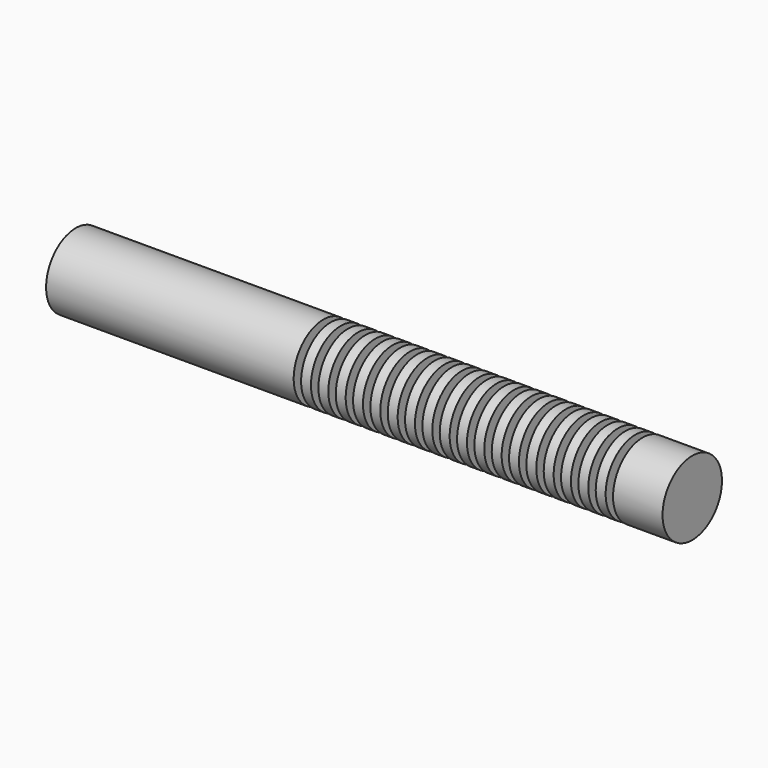
from build123d import *

# Parameters (mm, degrees)
F1_W     = 20
F1_H     = 57.5
F2_W     = 100
F2_H     = 75
F4_R     = 5
F5_DEPTH = 670
F6_DEPTH = 670


with BuildPart() as f3:
    # F0 (on Top) → F3 (revolve)
    with BuildSketch(Plane.XY):
        Polygon((-200, 0), (-500, 0), (-500, -75), (0, -75), (0, -17.5), (-200, -17.5), align=None)
    revolve(axis=Axis((-350, 0, 0), (-1, 0, 0)))


with BuildPart() as f3b:
    # F1 (on Top) → F3, piece 2 (revolve)
    with BuildSketch(Plane.XY):
        with Locations((165, -46.25)):
            Rectangle(F1_W, F1_H)
    revolve(axis=Axis((-350, 0, 0), (-1, 0, 0)))


with BuildPart() as f3c:
    # F1 (on Top) → F3, piece 3 (revolve)
    with BuildSketch(Plane.XY):
        with Locations((340, -46.25)):
            Rectangle(F1_W, F1_H)
    revolve(axis=Axis((-350, 0, 0), (-1, 0, 0)))


with BuildPart() as f3d:
    # F1 (on Top) → F3, piece 4 (revolve)
    with BuildSketch(Plane.XY):
        with Locations((130, -46.25)):
            Rectangle(F1_W, F1_H)
    revolve(axis=Axis((-350, 0, 0), (-1, 0, 0)))


with BuildPart() as f3e:
    # F1 (on Top) → F3, piece 5 (revolve)
    with BuildSketch(Plane.XY):
        with Locations((95, -46.25)):
            Rectangle(F1_W, F1_H)
    revolve(axis=Axis((-350, 0, 0), (-1, 0, 0)))


with BuildPart() as f3f:
    # F1 (on Top) → F3, piece 6 (revolve)
    with BuildSketch(Plane.XY):
        with Locations((375, -46.25)):
            Rectangle(F1_W, F1_H)
    revolve(axis=Axis((-350, 0, 0), (-1, 0, 0)))


with BuildPart() as f3g:
    # F1 (on Top) → F3, piece 7 (revolve)
    with BuildSketch(Plane.XY):
        with Locations((60, -46.25)):
            Rectangle(F1_W, F1_H)
    revolve(axis=Axis((-350, 0, 0), (-1, 0, 0)))


with BuildPart() as f3h:
    # F1 (on Top) → F3, piece 8 (revolve)
    with BuildSketch(Plane.XY):
        with Locations((305, -46.25)):
            Rectangle(F1_W, F1_H)
    revolve(axis=Axis((-350, 0, 0), (-1, 0, 0)))


with BuildPart() as f3i:
    # F1 (on Top) → F3, piece 9 (revolve)
    with BuildSketch(Plane.XY):
        with Locations((620, -46.25)):
            Rectangle(F1_W, F1_H)
    revolve(axis=Axis((-350, 0, 0), (-1, 0, 0)))


with BuildPart() as f3j:
    # F1 (on Top) → F3, piece 10 (revolve)
    with BuildSketch(Plane.XY):
        with Locations((585, -46.25)):
            Rectangle(F1_W, F1_H)
    revolve(axis=Axis((-350, 0, 0), (-1, 0, 0)))


with BuildPart() as f3k:
    # F1 (on Top) → F3, piece 11 (revolve)
    with BuildSketch(Plane.XY):
        with Locations((445, -46.25)):
            Rectangle(F1_W, F1_H)
    revolve(axis=Axis((-350, 0, 0), (-1, 0, 0)))


with BuildPart() as f3l:
    # F1 (on Top) → F3, piece 12 (revolve)
    with BuildSketch(Plane.XY):
        with Locations((200, -46.25)):
            Rectangle(F1_W, F1_H)
    revolve(axis=Axis((-350, 0, 0), (-1, 0, 0)))


with BuildPart() as f3m:
    # F1 (on Top) → F3, piece 13 (revolve)
    with BuildSketch(Plane.XY):
        with Locations((235, -46.25)):
            Rectangle(F1_W, F1_H)
    revolve(axis=Axis((-350, 0, 0), (-1, 0, 0)))


with BuildPart() as f3n:
    # F1 (on Top) → F3, piece 14 (revolve)
    with BuildSketch(Plane.XY):
        with Locations((410, -46.25)):
            Rectangle(F1_W, F1_H)
    revolve(axis=Axis((-350, 0, 0), (-1, 0, 0)))


with BuildPart() as f3o:
    # F1 (on Top) → F3, piece 15 (revolve)
    with BuildSketch(Plane.XY):
        with Locations((270, -46.25)):
            Rectangle(F1_W, F1_H)
    revolve(axis=Axis((-350, 0, 0), (-1, 0, 0)))


with BuildPart() as f3p:
    # F1 (on Top) → F3, piece 16 (revolve)
    with BuildSketch(Plane.XY):
        with Locations((25, -46.25)):
            Rectangle(F1_W, F1_H)
    revolve(axis=Axis((-350, 0, 0), (-1, 0, 0)))


with BuildPart() as f3q:
    # F1 (on Top) → F3, piece 17 (revolve)
    with BuildSketch(Plane.XY):
        with Locations((515, -46.25)):
            Rectangle(F1_W, F1_H)
    revolve(axis=Axis((-350, 0, 0), (-1, 0, 0)))


with BuildPart() as f3r:
    # F1 (on Top) → F3, piece 18 (revolve)
    with BuildSketch(Plane.XY):
        with Locations((480, -46.25)):
            Rectangle(F1_W, F1_H)
    revolve(axis=Axis((-350, 0, 0), (-1, 0, 0)))


with BuildPart() as f3s:
    # F2 (on Top) → F3, piece 19 (revolve)
    with BuildSketch(Plane.XY):
        with Locations((695, -37.5)):
            Rectangle(F2_W, F2_H)
    revolve(axis=Axis((-350, 0, 0), (-1, 0, 0)))


with BuildPart() as f3t:
    # F1 (on Top) → F3, piece 20 (revolve)
    with BuildSketch(Plane.XY):
        with Locations((550, -46.25)):
            Rectangle(F1_W, F1_H)
    revolve(axis=Axis((-350, 0, 0), (-1, 0, 0)))


with BuildPart() as f5_tool:
    # F4 (on Right) → F5 (new body, through all)
    with BuildSketch(Plane.YZ):
        with Locations((0, 50)):
            Circle(F4_R)
        with Locations((-43.3012701892, -25)):
            Circle(F4_R)
        with Locations((43.3012701892, -25)):
            Circle(F4_R)
    extrude(amount=F5_DEPTH)


with BuildPart() as f3b_1:
    add(f3b.part)

    # F5: cut by f5_tool
    add(f5_tool.part, mode=Mode.SUBTRACT)


with BuildPart() as f3c_1:
    add(f3c.part)

    # F5: cut by f5_tool
    add(f5_tool.part, mode=Mode.SUBTRACT)


with BuildPart() as f3d_1:
    add(f3d.part)

    # F5: cut by f5_tool
    add(f5_tool.part, mode=Mode.SUBTRACT)


with BuildPart() as f3e_1:
    add(f3e.part)

    # F5: cut by f5_tool
    add(f5_tool.part, mode=Mode.SUBTRACT)


with BuildPart() as f3f_1:
    add(f3f.part)

    # F5: cut by f5_tool
    add(f5_tool.part, mode=Mode.SUBTRACT)


with BuildPart() as f3g_1:
    add(f3g.part)

    # F5: cut by f5_tool
    add(f5_tool.part, mode=Mode.SUBTRACT)


with BuildPart() as f3h_1:
    add(f3h.part)

    # F5: cut by f5_tool
    add(f5_tool.part, mode=Mode.SUBTRACT)


with BuildPart() as f3i_1:
    add(f3i.part)

    # F5: cut by f5_tool
    add(f5_tool.part, mode=Mode.SUBTRACT)


with BuildPart() as f3j_1:
    add(f3j.part)

    # F5: cut by f5_tool
    add(f5_tool.part, mode=Mode.SUBTRACT)


with BuildPart() as f3k_1:
    add(f3k.part)

    # F5: cut by f5_tool
    add(f5_tool.part, mode=Mode.SUBTRACT)


with BuildPart() as f3l_1:
    add(f3l.part)

    # F5: cut by f5_tool
    add(f5_tool.part, mode=Mode.SUBTRACT)


with BuildPart() as f3m_1:
    add(f3m.part)

    # F5: cut by f5_tool
    add(f5_tool.part, mode=Mode.SUBTRACT)


with BuildPart() as f3n_1:
    add(f3n.part)

    # F5: cut by f5_tool
    add(f5_tool.part, mode=Mode.SUBTRACT)


with BuildPart() as f3o_1:
    add(f3o.part)

    # F5: cut by f5_tool
    add(f5_tool.part, mode=Mode.SUBTRACT)


with BuildPart() as f3p_1:
    add(f3p.part)

    # F5: cut by f5_tool
    add(f5_tool.part, mode=Mode.SUBTRACT)


with BuildPart() as f3q_1:
    add(f3q.part)

    # F5: cut by f5_tool
    add(f5_tool.part, mode=Mode.SUBTRACT)


with BuildPart() as f3r_1:
    add(f3r.part)

    # F5: cut by f5_tool
    add(f5_tool.part, mode=Mode.SUBTRACT)


with BuildPart() as f3s_1:
    add(f3s.part)

    # F5: cut by f5_tool
    add(f5_tool.part, mode=Mode.SUBTRACT)


with BuildPart() as f3t_1:
    add(f3t.part)

    # F5: cut by f5_tool
    add(f5_tool.part, mode=Mode.SUBTRACT)


with BuildPart() as f6:
    # F4 (on Right) → F6 (new body, through all)
    with BuildSketch(Plane.YZ):
        with Locations((0, 50)):
            Circle(F4_R)
    extrude(amount=F6_DEPTH)


with BuildPart() as f6b:
    # F4 (on Right) → F6, piece 2 (new body, through all)
    with BuildSketch(Plane.YZ):
        with Locations((-43.3012701892, -25)):
            Circle(F4_R)
    extrude(amount=F6_DEPTH)


with BuildPart() as f6c:
    # F4 (on Right) → F6, piece 3 (new body, through all)
    with BuildSketch(Plane.YZ):
        with Locations((43.3012701892, -25)):
            Circle(F4_R)
    extrude(amount=F6_DEPTH)


solid = Compound([f3.part, f3b_1.part, f3c_1.part, f3d_1.part, f3e_1.part, f3f_1.part, f3g_1.part, f3h_1.part, f3i_1.part, f3j_1.part, f3k_1.part, f3l_1.part, f3m_1.part, f3n_1.part, f3o_1.part, f3p_1.part, f3q_1.part, f3r_1.part, f3s_1.part, f3t_1.part, f6.part, f6b.part, f6c.part])
